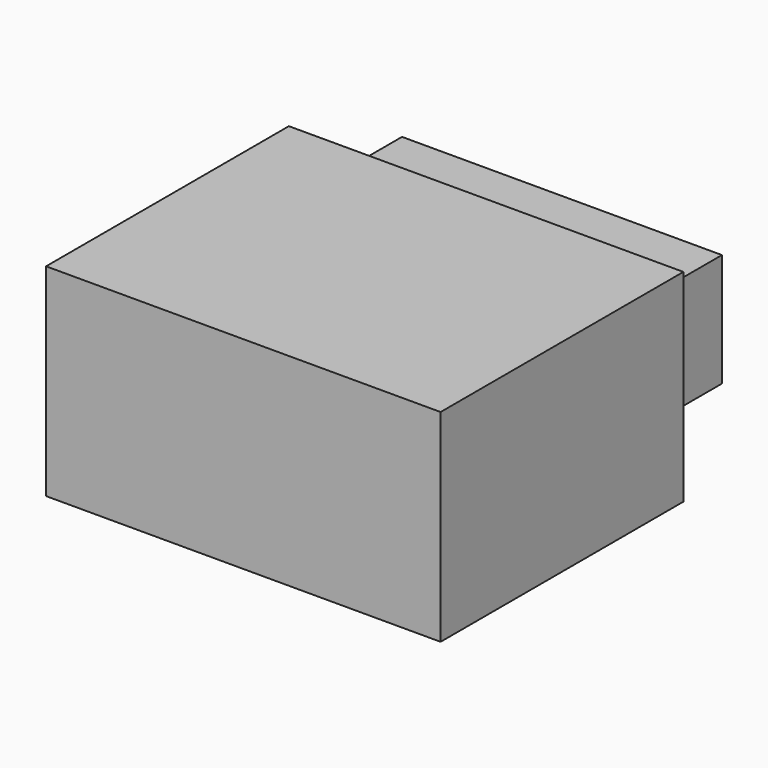
from build123d import *

# Parameters (mm, degrees)
F0_W     = 39
F0_H     = 20
F1_DEPTH = 30
F2_W     = 31.625382
F2_H     = 11.189356
F3_DEPTH = 39.8


with BuildPart() as f1:
    # F0 (on Front) → F1 (new body)
    with BuildSketch(Plane.XZ):
        Rectangle(F0_W, F0_H)
    extrude(amount=F1_DEPTH)

    # F2 (on face) → F3 (join)
    with BuildSketch(Plane.XZ.offset(30)):
        with Locations((-0.341064, 0.578394)):
            Rectangle(F2_W, F2_H)
    extrude(amount=-F3_DEPTH)


solid = f1.part
